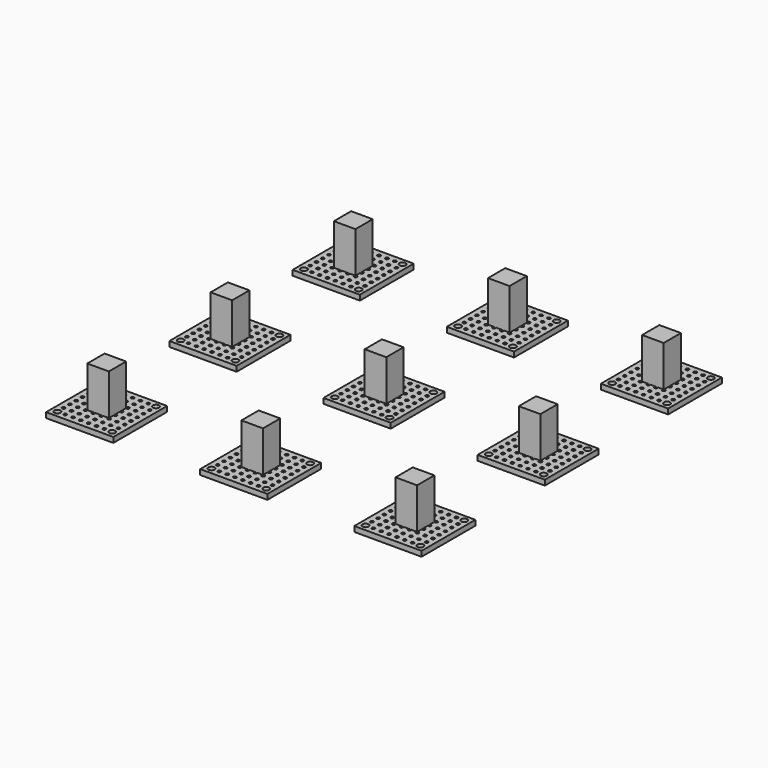
from build123d import *

# Parameters (mm, degrees)
BOX008_W          = 7
BOX008_H          = 7
BOX008_DEPTH      = 13.3
CYLINDER010_R     = 1
CYLINDER010_DEPTH = 10
CYLINDER009_R     = 0.5
CYLINDER009_DEPTH = 2
ARRAY003_X_COUNT  = 10
ARRAY003_X_PITCH  = 2.54
ARRAY003_Y_COUNT  = 10
ARRAY003_Y_PITCH  = 2.54
BOX007_W          = 21.82
BOX007_H          = 21.82
BOX007_DEPTH      = 1.7
ARRAY004_X_COUNT  = 3
ARRAY004_X_PITCH  = 50
ARRAY004_Y_COUNT  = 3
ARRAY004_Y_PITCH  = 50


with BuildPart() as cube008:
    # Box008 → Box008 (new body)
    with BuildSketch(Plane(origin=(7.43, 7.43, 1.7), x_dir=(1, 0, 0), z_dir=(0, 0, 1))):
        with Locations((3.5, 3.5)):
            Rectangle(BOX008_W, BOX008_H)
    extrude(amount=BOX008_DEPTH)


with BuildPart() as cylinder010:
    # Cylinder010 → Cylinder010 (new body)
    with BuildSketch(Plane(origin=(2.04, 19.82, -2.3), x_dir=(1, 0, 0), z_dir=(0, 0, 1))):
        Circle(CYLINDER010_R)
    extrude(amount=CYLINDER010_DEPTH)


with BuildPart() as clone_of_cylinder010:
    # Clone013 base: copy of Cylinder010
    add(cylinder010.part)


with BuildPart() as clone_of_cylinder010_1:
    # Clone013 placement: moved
    add(clone_of_cylinder010.part.moved(Location((17.78, 0, 0))))


with BuildPart() as clone_of_cylinder011:
    # Clone014 base: copy of Cylinder010
    add(cylinder010.part)


with BuildPart() as clone_of_cylinder011_1:
    # Clone014 placement: moved
    add(clone_of_cylinder011.part.moved(Location((17.78, -17.78, 0))))


with BuildPart() as fusion010:
    # Clone015 base: copy of Cylinder010
    add(cylinder010.part)


with BuildPart() as fusion010_1:
    # Clone015 placement: moved
    add(fusion010.part.moved(Location((0, -17.78, 0))))

    # Fusion010: union Cylinder010, Clone of Cylinder010, Clone of Cylinder011
    add(cylinder010.part)
    add(clone_of_cylinder010_1.part)
    add(clone_of_cylinder011_1.part)


with BuildPart() as array003:
    # Cylinder009 → Cylinder009 (new body)
    with BuildSketch(Plane(origin=(-0.5, -0.5, 0), x_dir=(1, 0, 0), z_dir=(0, 0, 1))):
        Circle(CYLINDER009_R)
    extrude(amount=CYLINDER009_DEPTH)

    # Array003 X: Array003 ×10


with BuildPart() as array003_1:
    add(array003.part)
    with Locations(*[(i * ARRAY003_X_PITCH, 0, 0) for i in range(1, ARRAY003_X_COUNT)]):
        add(array003.part)

    # Array003 Y: Array003 ×10


with BuildPart() as array003_2:
    add(array003_1.part)
    with Locations(*[(0, i * ARRAY003_Y_PITCH, 0) for i in range(1, ARRAY003_Y_COUNT)]):
        add(array003_1.part)


with BuildPart() as array004:
    # Box007 → Box007 (new body)
    with BuildSketch(Plane.XY):
        with Locations((10.91, 10.91)):
            Rectangle(BOX007_W, BOX007_H)
    extrude(amount=BOX007_DEPTH)

    # Cut007: cut Array003
    add(array003_2.part, mode=Mode.SUBTRACT)

    # Cut008: cut Fusion010
    add(fusion010_1.part, mode=Mode.SUBTRACT)

    # Fusion011: union Cube008
    add(cube008.part)


with BuildPart() as array004_1:
    # Fusion011 placement: moved
    add(array004.part.moved(Location((-0.93, -0.93, 3.3))))

    # Array004 X: Array004 ×3


with BuildPart() as array004_2:
    add(array004_1.part)
    with Locations(*[(i * ARRAY004_X_PITCH, 0, 0) for i in range(1, ARRAY004_X_COUNT)]):
        add(array004_1.part)

    # Array004 Y: Array004 ×3


with BuildPart() as array004_3:
    add(array004_2.part)
    with Locations(*[(0, i * ARRAY004_Y_PITCH, 0) for i in range(1, ARRAY004_Y_COUNT)]):
        add(array004_2.part)


solid = array004_3.part
